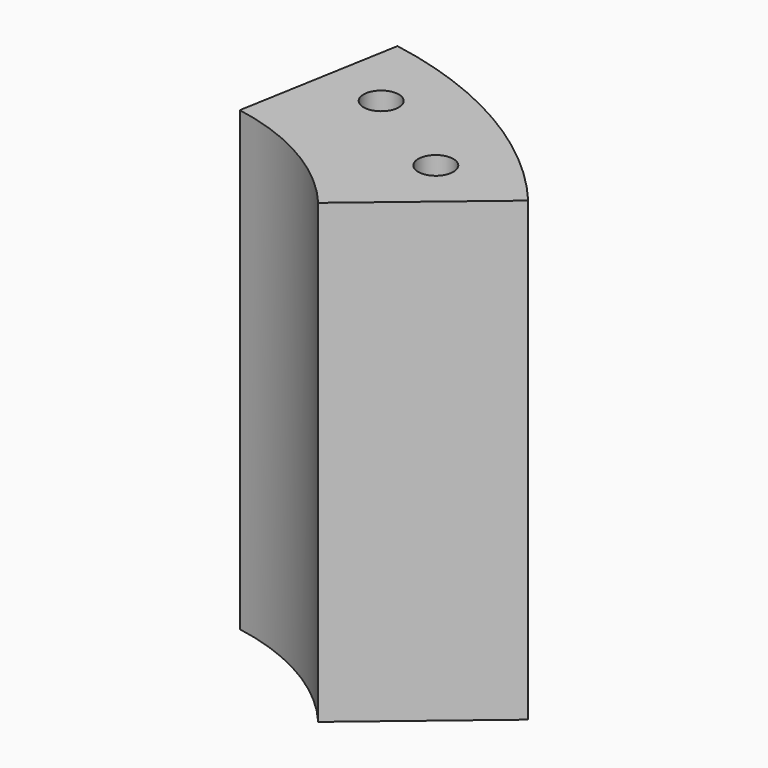
from build123d import *

# Parameters (mm, degrees)
CYLINDER222_R               = 1.5
CYLINDER222_DEPTH           = 60
CYLINDER221_R               = 1.5
CYLINDER221_DEPTH           = 60
COMPOUND199_PLACEMENT_ANGLE = 60
BOX092_W                    = 50
BOX092_H                    = 50
BOX092_DEPTH                = 39
BOX092_PLACEMENT_ANGLE      = 80
BOX093_W                    = 50
BOX093_H                    = 50
BOX093_DEPTH                = 39
BOX093_PLACEMENT_ANGLE      = 50
BOX095_W                    = 50
BOX095_H                    = 100
BOX095_DEPTH                = 39
BOX095_PLACEMENT_ANGLE      = 150
BOX094_W                    = 50
BOX094_H                    = 100
BOX094_DEPTH                = 39
BOX094_PLACEMENT_ANGLE      = 240
TUBE017_R                   = 35
TUBE017_R_2                 = 21
TUBE017_DEPTH               = 39


with BuildPart() as obj1:
    # Cylinder222 → Cylinder222 (new body)
    with BuildSketch(Plane(origin=(29, -5, -6), x_dir=(1, 0, 0), z_dir=(0, 0, 1))):
        Circle(CYLINDER222_R)
    extrude(amount=CYLINDER222_DEPTH)


with BuildPart() as compound199:
    # Cylinder221 → Cylinder221 (new body)
    with BuildSketch(Plane(origin=(29, 5, -6), x_dir=(1, 0, 0), z_dir=(0, 0, 1))):
        Circle(CYLINDER221_R)
    extrude(amount=CYLINDER221_DEPTH)

    # Compound199: union obj1
    add(obj1.part)


with BuildPart() as compound199_1:
    # Compound199 placement: moved
    add(compound199.part.rotate(Axis((0, 0, 0), (0, 0, 1)), COMPOUND199_PLACEMENT_ANGLE))


with BuildPart() as krychle092:
    # Box092 → Box092 (new body)
    with BuildSketch(Plane.XY):
        with Locations((25, 25)):
            Rectangle(BOX092_W, BOX092_H)
    extrude(amount=BOX092_DEPTH)


with BuildPart() as krychle092_1:
    # Box092 placement: moved
    add(krychle092.part.moved(Location((0, 0, 8))).rotate(Axis((0, 0, 8), (0, 0, 1)), BOX092_PLACEMENT_ANGLE))


with BuildPart() as krychle093:
    # Box093 → Box093 (new body)
    with BuildSketch(Plane.XY):
        with Locations((25, 25)):
            Rectangle(BOX093_W, BOX093_H)
    extrude(amount=BOX093_DEPTH)


with BuildPart() as krychle093_1:
    # Box093 placement: moved
    add(krychle093.part.moved(Location((0, 0, 8))).rotate(Axis((0, 0, 8), (0, 0, -1)), BOX093_PLACEMENT_ANGLE))


with BuildPart() as krychle095:
    # Box095 → Box095 (new body)
    with BuildSketch(Plane.XY):
        with Locations((25, 50)):
            Rectangle(BOX095_W, BOX095_H)
    extrude(amount=BOX095_DEPTH)


with BuildPart() as krychle095_1:
    # Box095 placement: moved
    add(krychle095.part.moved(Location((0, 0, 8))).rotate(Axis((0, 0, 8), (0, 0, 1)), BOX095_PLACEMENT_ANGLE))


with BuildPart() as krychle094:
    # Box094 → Box094 (new body)
    with BuildSketch(Plane.XY):
        with Locations((25, 50)):
            Rectangle(BOX094_W, BOX094_H)
    extrude(amount=BOX094_DEPTH)


with BuildPart() as krychle094_1:
    # Box094 placement: moved
    add(krychle094.part.moved(Location((0, 0, 8))).rotate(Axis((0, 0, 8), (0, 0, 1)), BOX094_PLACEMENT_ANGLE))


with BuildPart() as cut106:
    # Tube017 → Tube017 (new body)
    with BuildSketch(Plane.XY.offset(8)):
        Circle(TUBE017_R)
        Circle(TUBE017_R_2, mode=Mode.SUBTRACT)
    extrude(amount=TUBE017_DEPTH)

    # Cut102: cut Krychle094
    add(krychle094_1.part, mode=Mode.SUBTRACT)

    # Cut103: cut Krychle095
    add(krychle095_1.part, mode=Mode.SUBTRACT)

    # Cut104: cut Krychle093
    add(krychle093_1.part, mode=Mode.SUBTRACT)

    # Cut105: cut Krychle092
    add(krychle092_1.part, mode=Mode.SUBTRACT)

    # Cut106: cut Compound199
    add(compound199_1.part, mode=Mode.SUBTRACT)


solid = cut106.part
